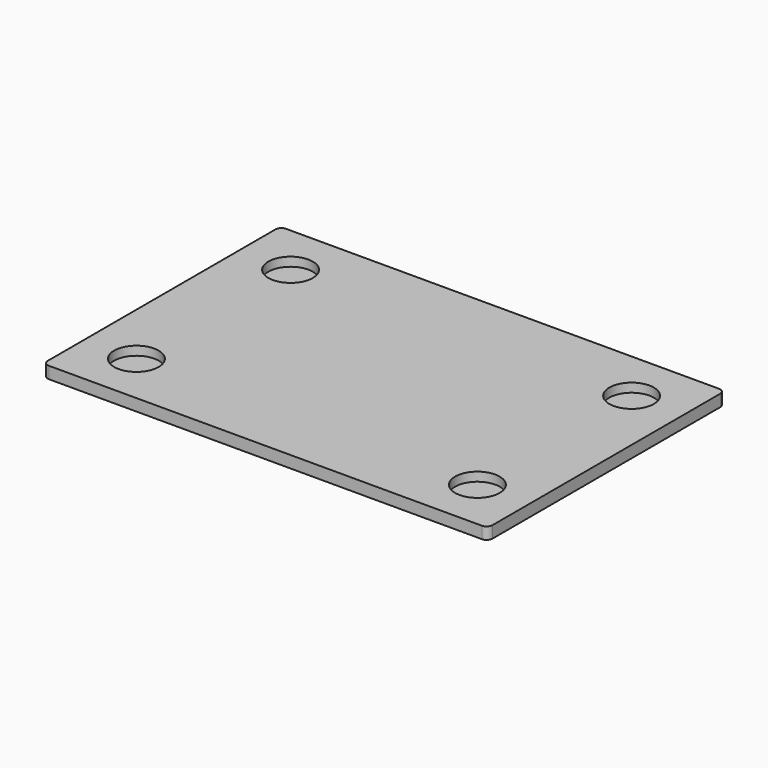
from build123d import *

# Parameters (mm, degrees)
F0_W     = 150
F0_H     = 100
F1_DEPTH = 4
F2_R     = 7.5
F3_DEPTH = 3
F4_R     = 2


with BuildPart() as f1:
    # F0 (on Top) → F1 (new body)
    with BuildSketch(Plane.XY):
        with Locations((75, 50)):
            Rectangle(F0_W, F0_H)
    extrude(amount=F1_DEPTH)

    # F2 (on face) → F3 (cut)
    with BuildSketch(Plane.XY.offset(4)):
        with Locations((17.5, 82.5)):
            Circle(F2_R)
        with Locations((132.5, 82.5)):
            Circle(F2_R)
        with Locations((132.5, 17.5)):
            Circle(F2_R)
        with Locations((17.5, 17.5)):
            Circle(F2_R)
    extrude(amount=-F3_DEPTH, mode=Mode.SUBTRACT)

    # F4
    f4_edges = [f1.edges().sort_by_distance(p)[0] for p in [
        (0, 0, 2),
        (0, 100, 2),
        (150, 100, 2),
        (150, 0, 2),
    ]]
    fillet(f4_edges, radius=F4_R)


solid = f1.part
